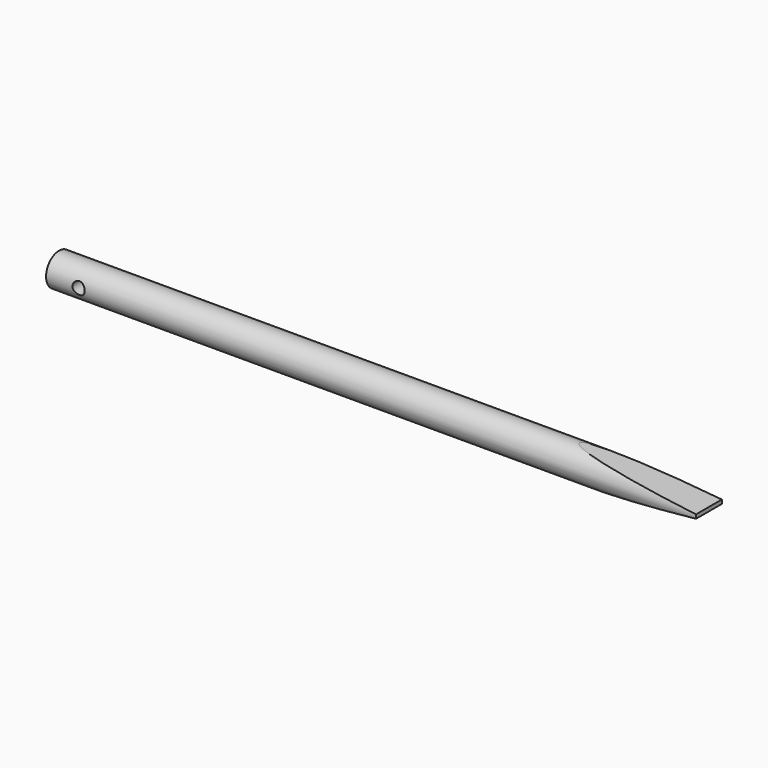
from build123d import *

# Parameters (mm, degrees)
F0_R     = 3.175
F1_DEPTH = 127
F2_R     = 1.1938
F3_DEPTH = 12.7


with BuildPart() as f1:
    # F0 (on Right) → F1 (new body)
    with BuildSketch(Plane.YZ):
        Circle(F0_R)
    extrude(amount=-F1_DEPTH)

    # F2 (on Front) → F3 (cut, symmetric)
    with BuildSketch(Plane.XZ):
        with Locations((-120.65, 0)):
            Circle(F2_R)
        Polygon((-25.4, 3.185186), (0, 0.381), (0, 4.772419), (-25.4, 4.772419), align=None)
        Polygon((0, -4.772419), (0, -0.381), (-25.4, -3.185186), (-25.4, -4.772419), align=None)
    extrude(amount=F3_DEPTH, both=True, mode=Mode.SUBTRACT)


solid = f1.part
